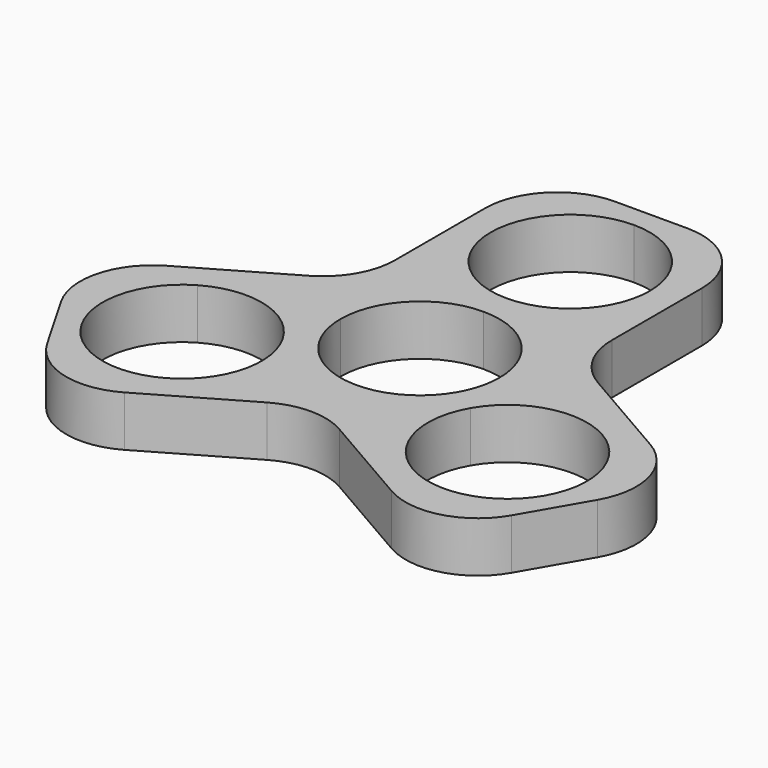
from build123d import *

# Parameters (mm, degrees)
F1_DEPTH = 7
F3_ANGLE = 120
F4_ANGLE = 240
F6_R     = 10


with BuildPart() as f1:
    # F0 (on Top) → F1 (new body)
    with BuildSketch(Plane.XY):
        with BuildLine():
            ThreePointArc((-11, 0), (-7.7781745931, 7.7781745931), (0, 11))
            Line((0, 11), (0, 15))
            ThreePointArc((0, 15), (-11, 26), (0, 37))
            Line((0, 37), (0, 40))
            Line((0, 40), (-15, 40))
            Line((-15, 40), (-15, 0))
            Line((-15, 0), (-11, 0))
        make_face()
        with BuildLine():
            ThreePointArc((0, 11), (7.7781745931, 7.7781745931), (11, 0))
            Line((11, 0), (15, 0))
            Line((15, 0), (15, 40))
            Line((15, 40), (0, 40))
            Line((0, 40), (0, 37))
            ThreePointArc((0, 37), (7.7781745931, 33.7781745931), (11, 26))
            ThreePointArc((11, 26), (7.7781745931, 18.2218254069), (0, 15))
            Line((0, 15), (0, 11))
        make_face()
    extrude(amount=F1_DEPTH)


with BuildPart() as f3_1:
    # F3: copy of F1
    add(f1.part.rotate(Axis((0, 0, 26.0697361082), (0, 0, 1)), F3_ANGLE))


with BuildPart() as f4_1:
    # F4: copy of F1
    add(f1.part.rotate(Axis((0, 0, 26.0697361082), (0, 0, 1)), F4_ANGLE))


with BuildPart() as f1_1:
    add(f1.part)

    # F5: union F4_1, F3_1
    add(f4_1.part)
    add(f3_1.part)

    # F6
    f6_edges = [f1_1.edges().sort_by_distance(p)[0] for p in [
        (15, 40, 3.5),
        (42.141016, -7.009619, 3.5),
        (27.141016, -32.990381, 3.5),
        (-27.141016, -32.990381, 3.5),
        (-42.141016, -7.009619, 3.5),
        (-15, 40, 3.5),
        (-15, 8.660254, 3.5),
        (0, -17.320508, 3.5),
        (15, 8.660254, 3.5),
    ]]
    fillet(f6_edges, radius=F6_R)


solid = f1_1.part
